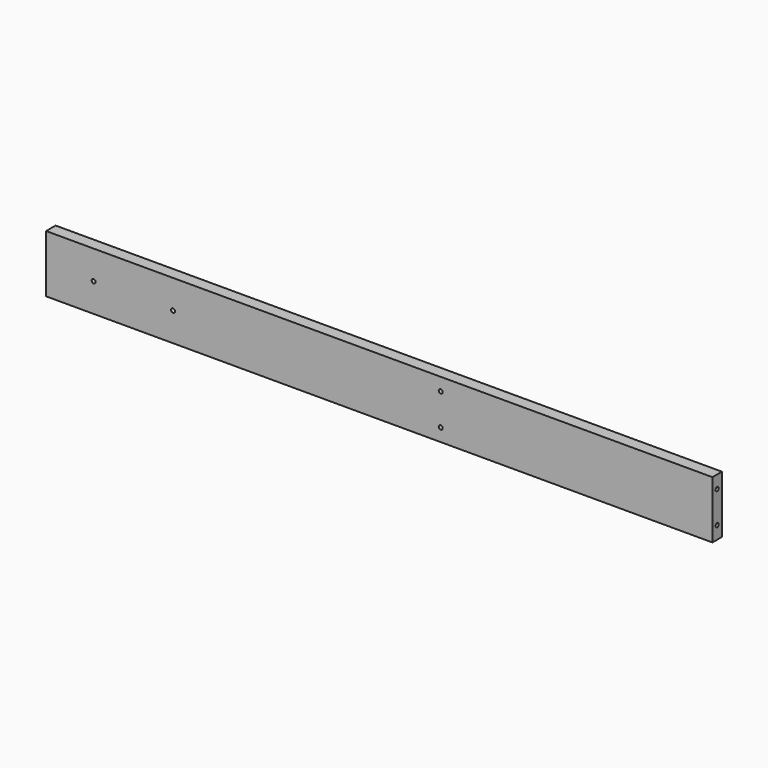
from build123d import *

# Parameters (mm, degrees)
F0_W     = 2133.6
F0_H     = 184.15
F1_DEPTH = 19.05
F2_R     = 6.35
F3_DEPTH = 25.4
F4_R     = 6.35
F5_DEPTH = 50.8
F6_R     = 6.35
F7_DEPTH = 25.4


with BuildPart() as f1:
    # F0 (on Front) → F1 (new body, symmetric)
    with BuildSketch(Plane.XZ):
        Rectangle(F0_W, F0_H)
    extrude(amount=F1_DEPTH, both=True)

    # F2 (on face) → F3 (cut)
    with BuildSketch(Plane.YZ.offset(1066.8)):
        with Locations((0, 50.8)):
            Circle(F2_R)
        with Locations((0, -50.8)):
            Circle(F2_R)
    extrude(amount=-F3_DEPTH, mode=Mode.SUBTRACT)

    # F4 (on face) → F5 (cut)
    with BuildSketch(Plane.XZ.offset(19.05)):
        with Locations((196.85, 50.8)):
            Circle(F4_R)
        with Locations((196.85, -50.8)):
            Circle(F4_R)
    extrude(amount=-F5_DEPTH, mode=Mode.SUBTRACT)

    # F6 (on Front) → F7 (cut, symmetric)
    with BuildSketch(Plane.XZ):
        with Locations((-914.4, 0)):
            Circle(F6_R)
        with Locations((-660.4, 0)):
            Circle(F6_R)
    extrude(amount=F7_DEPTH, both=True, mode=Mode.SUBTRACT)


solid = f1.part
